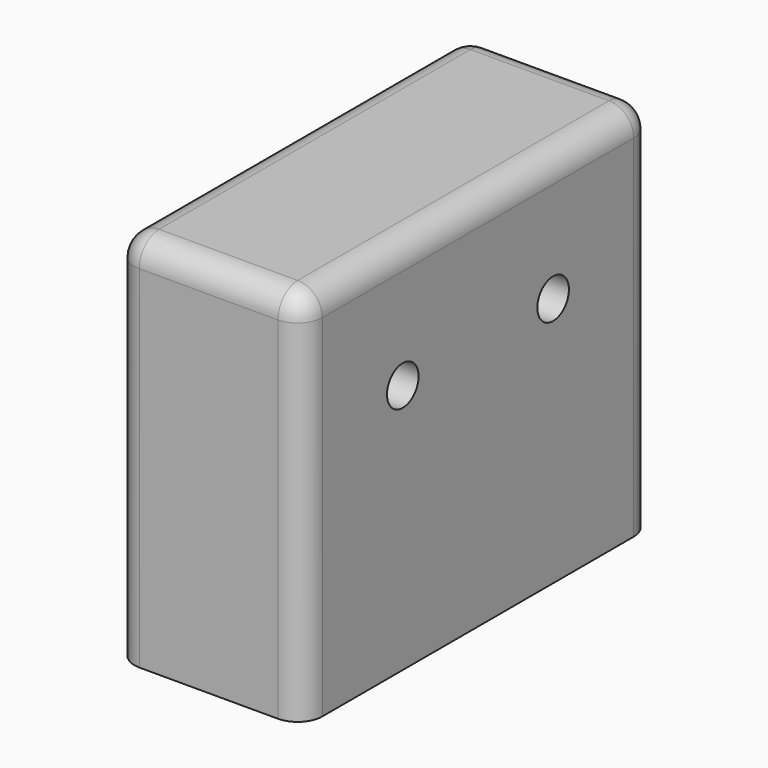
from build123d import *

# Parameters (mm, degrees)
F0_W     = 38.1
F0_H     = 88.9
F1_DEPTH = 76.2
F2_R     = 4
F3_DEPTH = 25
F4_R     = 4
F5_DEPTH = 25
F6_R     = 5


with BuildPart() as f1:
    # F0 (on Top) → F1 (new body)
    with BuildSketch(Plane.XY):
        Rectangle(F0_W, F0_H)
    extrude(amount=F1_DEPTH)

    # F2 (on face) → F3 (cut)
    with BuildSketch(Plane(origin=(0, 0, 0), x_dir=(1, 0, 0), z_dir=(0, 0, -1))):
        with Locations((0, 31.75)):
            Circle(F2_R)
        with Locations((0, -31.75)):
            Circle(F2_R)
    extrude(amount=-F3_DEPTH, mode=Mode.SUBTRACT)

    # F4 (on face) → F5 (cut)
    with BuildSketch(Plane.YZ.offset(19.05)):
        with Locations((-19.05, 50.8)):
            Circle(F4_R)
        with Locations((19.05, 50.8)):
            Circle(F4_R)
    extrude(amount=-F5_DEPTH, mode=Mode.SUBTRACT)

    # F6
    f6_edges = [f1.edges().sort_by_distance(p)[0] for p in [
        (-19.05, -44.45, 38.1),
        (19.05, -44.45, 38.1),
        (0, -44.45, 76.2),
        (-19.05, 0, 76.2),
        (19.05, 0, 76.2),
        (19.05, 44.45, 38.1),
        (0, 44.45, 76.2),
        (-19.05, 44.45, 38.1),
    ]]
    fillet(f6_edges, radius=F6_R)


solid = f1.part
